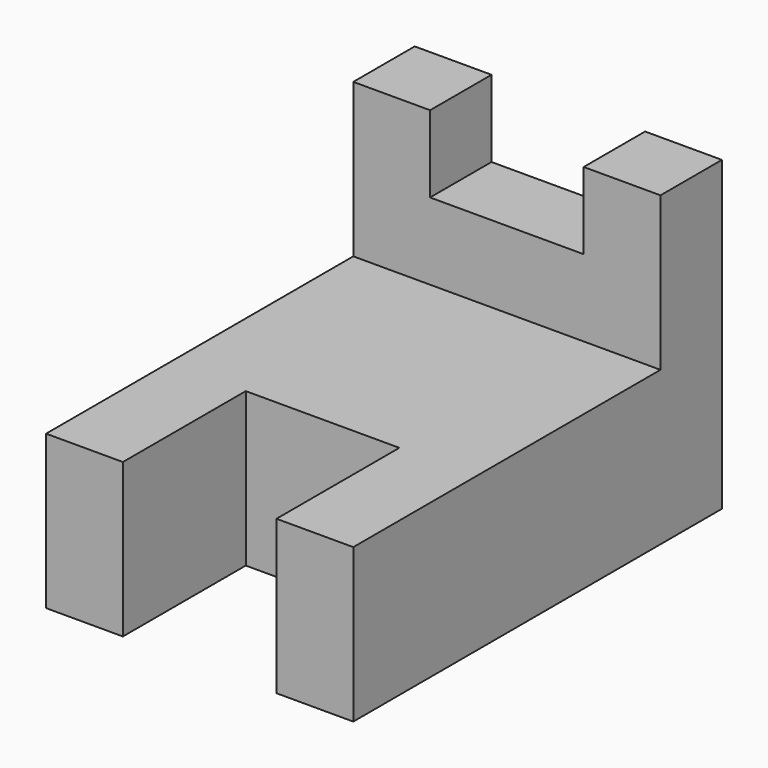
from build123d import *

# Parameters (mm, degrees)
F0_W     = 25.4
F0_H     = 12.7
F1_DEPTH = 25.4
F2_W     = 6.35
F2_H     = 12.7
F3_DEPTH = 12.7
F4_W     = 25.4
F4_H     = 6.35
F5_DEPTH = 6.35
F6_W     = 6.35
F6_H     = 6.35
F7_DEPTH = 6.35


with BuildPart() as f1:
    # F0 (on Front) → F1 (new body)
    with BuildSketch(Plane.XZ):
        with Locations((12.7, 6.35)):
            Rectangle(F0_W, F0_H)
    extrude(amount=F1_DEPTH)

    # F2 (on face) → F3 (join)
    with BuildSketch(Plane.XZ.offset(25.4)):
        with Locations((3.175, 6.35)):
            Rectangle(F2_W, F2_H)
        with Locations((22.225, 6.35)):
            Rectangle(F2_W, F2_H)
    extrude(amount=F3_DEPTH)

    # F4 (on face) → F5 (join)
    with BuildSketch(Plane.XY.offset(12.7)):
        with Locations((12.7, -3.175)):
            Rectangle(F4_W, F4_H)
    extrude(amount=F5_DEPTH)

    # F6 (on face) → F7 (join)
    with BuildSketch(Plane.XY.offset(19.05)):
        with Locations((3.175, -3.175)):
            Rectangle(F6_W, F6_H)
        with Locations((22.225, -3.175)):
            Rectangle(F6_W, F6_H)
    extrude(amount=F7_DEPTH)


solid = f1.part
